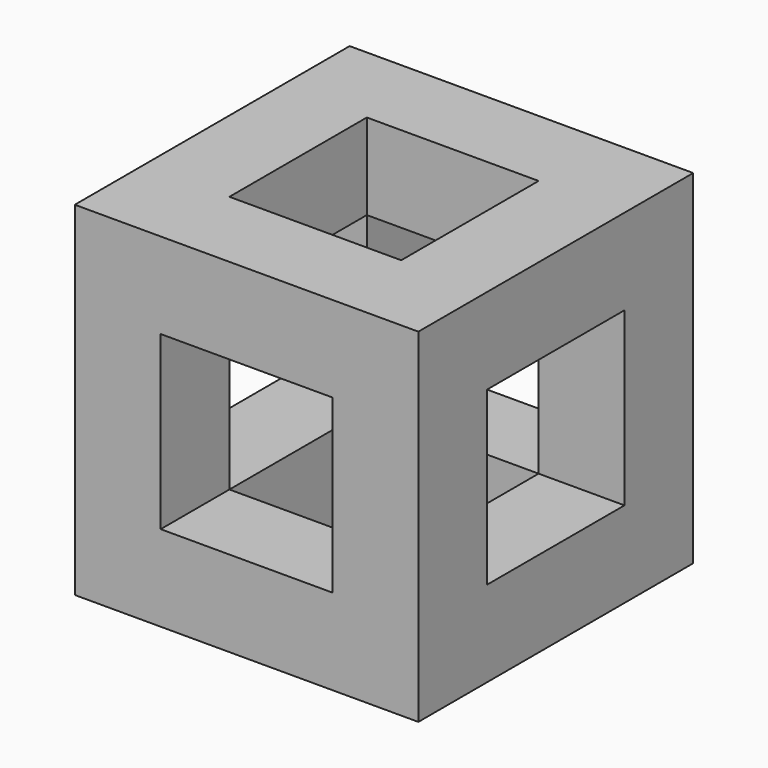
from build123d import *

# Parameters (mm, degrees)
F0_W     = 2
F0_H     = 2
F0_W_2   = 1
F0_H_2   = 1
F1_DEPTH = 0.5
F2_W     = 0.5
F2_H     = 0.5
F3_DEPTH = 0.5


with BuildPart() as f1:
    # F0 (on Top) → F1 (new body)
    with BuildSketch(Plane.XY):
        with Locations((1, 1)):
            Rectangle(F0_W, F0_H)
        with Locations((1, 1)):
            Rectangle(F0_W_2, F0_H_2, mode=Mode.SUBTRACT)
    extrude(amount=F1_DEPTH)

    # F2 (on face) → F3 (join)
    with BuildSketch(Plane.XY.offset(0.5)):
        with Locations((0.25, 1.75)):
            Rectangle(F2_W, F2_H)
        with Locations((0.25, 0.25)):
            Rectangle(F2_W, F2_H)
        with Locations((1.75, 0.25)):
            Rectangle(F2_W, F2_H)
        with Locations((1.75, 1.75)):
            Rectangle(F2_W, F2_H)
    extrude(amount=F3_DEPTH)

    # F4: F1 across face


with BuildPart() as f1_1:
    add(f1.part)
    add(f1.part.mirror(Plane(origin=(0.25, 0.25, 1), x_dir=(1, 0, 0), z_dir=(0, 0, 1))))


solid = f1_1.part
